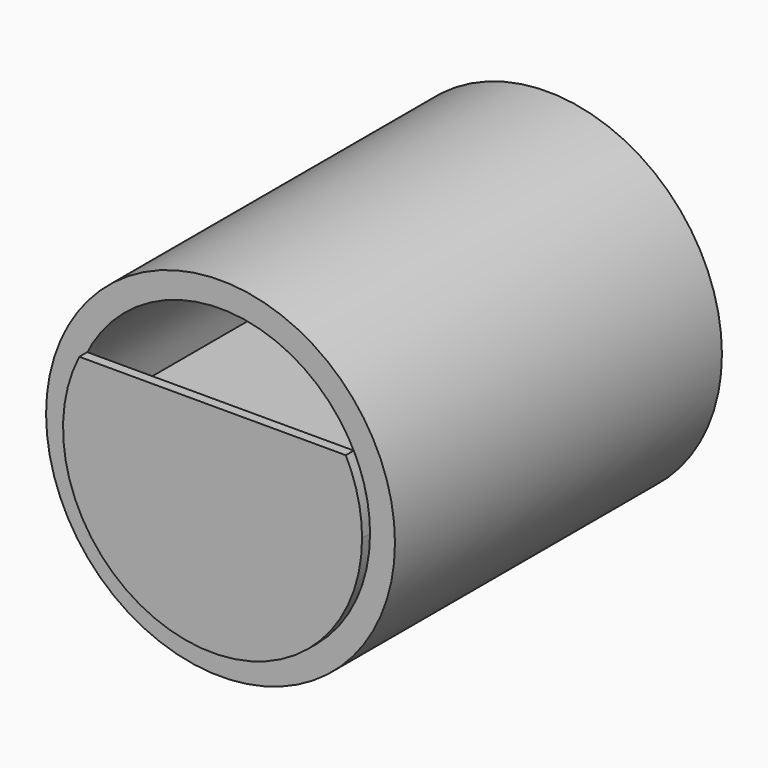
from build123d import *

# Parameters (mm, degrees)
F0_R     = 44.45
F0_R_2   = 38.1
F1_DEPTH = 101.6
F2_R     = 44.45
F3_DEPTH = 2.54
F6_DEPTH = 88.9
F8_DEPTH = 2.54


with BuildPart() as f1:
    # F0 (on Front) → F1 (new body)
    with BuildSketch(Plane.XZ):
        Circle(F0_R)
        Circle(F0_R_2, mode=Mode.SUBTRACT)
    extrude(amount=F1_DEPTH)

    # F2 (on Front) → F3 (join)
    with BuildSketch(Plane.XZ):
        Circle(F2_R)
    extrude(amount=-F3_DEPTH)

    # F5 (on offset) → F6 (join)
    with BuildSketch(Plane.XZ.offset(5.08)):
        with BuildLine():
            Line((38.065738, 0), (-38.134262, 0))
            ThreePointArc((-38.134262, 0), (-0.034262, -37.846615), (38.065738, 0))
        make_face()
    extrude(amount=F6_DEPTH)


with BuildPart() as f8:
    # F7 (on face) → F8 (new body)
    with BuildSketch(Plane.XZ.offset(101.6)):
        with BuildLine():
            Line((33.960771, 17.27067), (-33.960771, 17.27067))
            ThreePointArc((-33.960771, 17.27067), (-8.879883, -37.050745), (38.1, 0))
            ThreePointArc((38.1, 0), (37.050745, 8.879883), (33.960771, 17.27067))
        make_face()
    extrude(amount=F8_DEPTH)


solid = Compound([f1.part, f8.part])
